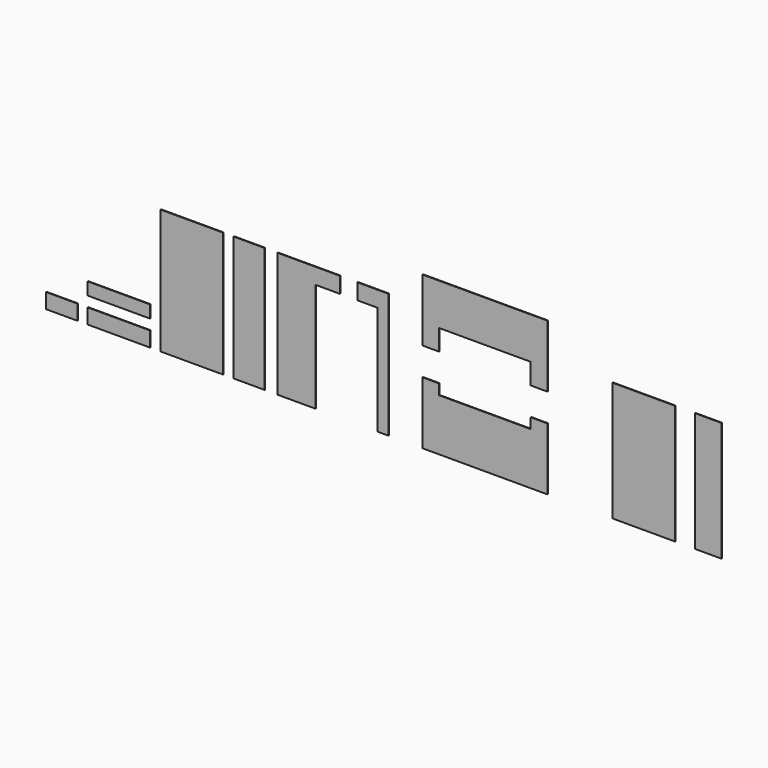
from build123d import *

# Parameters (mm, degrees)
F0_W     = 1200
F0_H     = 2400
F0_W_2   = 600
F0_H_2   = 2295
F0_W_3   = 510
F0_H_3   = 290
F0_H_4   = 240
F1_DEPTH = 12


with BuildPart() as f1:
    # F0 (on Front) → F1 (new body)
    with BuildSketch(Plane.XZ):
        with Locations((600, 1200)):
            Rectangle(F0_W, F0_H)
        with Locations((1700, 1200)):
            Rectangle(F0_W_2, F0_H)
        Polygon((2241.639376, 2400), (2241.639376, 0), (2976.639376, 0), (2976.639376, 2095), (3441.639376, 2095), (3441.639376, 2400), align=None)
        Polygon((4164.084206, 2095), (4164.084206, 0), (4379.084206, 0), (4379.084206, 2400), (3779.084206, 2400), (3779.084206, 2095), align=None)
        Polygon((5029.037476, 1200), (5029.037476, 0), (7429.037476, 0), (7429.037476, 1200), (7109.037476, 1200), (7109.037476, 1000), (5349.037476, 1000), (5349.037476, 1200), align=None)
        Polygon((5029.037476, 2937.426996), (5029.037476, 1737.426996), (5349.037476, 1737.426996), (5349.037476, 2137.426996), (7109.037476, 2137.426996), (7109.037476, 1737.426996), (7429.037476, 1737.426996), (7429.037476, 2937.426996), align=None)
        with Locations((9278.629875, 1147.5)):
            Rectangle(F0_W, F0_H_2)
        with Locations((10517.163162, 1147.5)):
            Rectangle(F0_W_3, F0_H_2)
        with Locations((-800, 145)):
            Rectangle(F0_W, F0_H_3)
        with Locations((-1900, 145)):
            Rectangle(F0_W_2, F0_H_3)
        with Locations((-800, 610)):
            Rectangle(F0_W, F0_H_4)
    extrude(amount=-F1_DEPTH)


solid = f1.part
